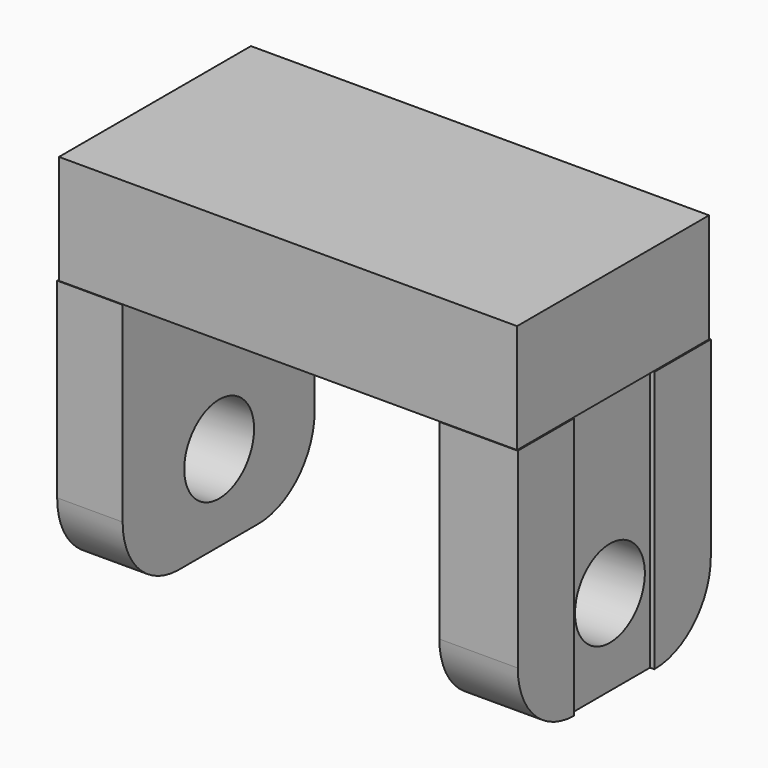
from build123d import *

# Parameters (mm, degrees)
F0_W           = 105
F0_H           = 55
F1_DEPTH       = 25
F2_D           = 10
F2_DEPTH       = 15
F2_TIP         = 3.0043030951
F3_D           = 5
F3_DEPTH       = 20
F3_TIP         = 1.5021515476
F4_W           = 15
F4_H           = 55
F4_W_2         = 17.9679095745
F4_H_2         = 55.3074888885
F5_DEPTH       = 60
F6_R           = 16.1752308679
F9_D           = 20
F9_DEPTH       = 50
F9_TIP         = 6.0086061903
F9_ON_F8_D     = 20
F9_ON_F8_DEPTH = 50
F9_ON_F8_TIP   = 6.0086061903
F10_W          = 22.9570271527
F10_H          = 60
F10_R          = 10
F11_DEPTH      = 1
F13_DEPTH      = 1


with BuildPart() as f1:
    # F0 (on Top) → F1 (new body)
    with BuildSketch(Plane.XY):
        Rectangle(F0_W, F0_H)
    extrude(amount=F1_DEPTH)

    # F2
    with Locations(Plane(origin=(0, 0, 0), x_dir=(1, 0, 0), z_dir=(0, 0, -1))):
        with Locations((-9.5454547554, -13.6163104326), (-9.5454547554, 16.7045462877), (10.4545452446, -13.6163104326), (10.4545452446, 17.2660425305)):
            Hole(F2_D / 2, depth=F2_DEPTH)
            with Locations((0, 0, -(F2_DEPTH + F2_TIP / 2))):  # 118° drill point
                Cone(0, F2_D / 2, F2_TIP, mode=Mode.SUBTRACT)

    # F3
    with Locations(Plane(origin=(0, 0, 0), x_dir=(1, 0, 0), z_dir=(0, 0, -1))):
        with Locations((-9.5454547554, 16.7045462877), (10.4545452446, 17.2660425305)):
            Hole(F3_D / 2, depth=F3_DEPTH)
            with Locations((0, 0, -(F3_DEPTH + F3_TIP / 2))):  # 118° drill point
                Cone(0, F3_D / 2, F3_TIP, mode=Mode.SUBTRACT)

    # F4 (on face) → F5 (join)
    with BuildSketch(Plane.XY):
        with Locations((-45.2807511389, -0.1537444443)):
            Rectangle(F4_W, F4_H)
        with Locations((43.7967926264, 0)):
            Rectangle(F4_W_2, F4_H_2)
    extrude(amount=-F5_DEPTH)

    # F6
    f6_edges = [f1.edges().sort_by_distance(p)[0] for p in [
        (-45.280751, 27.346256, -60),
        (-45.280751, -27.653744, -60),
        (43.796793, -27.653744, -60),
        (43.796793, 27.653744, -60),
    ]]
    fillet(f6_edges, radius=F6_R)

    # F9 (one way)
    with BuildSketch(Plane(origin=(34.8128378391, 0, 0), x_dir=(0, -1, 0), z_dir=(-1, 0, 0))):
        with Locations((0, -40.2935221791)):
            Circle(F9_D / 2)
    extrude(amount=-F9_DEPTH, mode=Mode.SUBTRACT)
    with Locations(Plane(origin=(34.8128378391, 0, 0), x_dir=(0, -1, 0), z_dir=(-1, 0, 0))):
        with Locations((0, -40.2935221791)):
            with Locations((0, 0, -(F9_DEPTH + F9_TIP / 2))):  # 118° drill point
                Cone(0, F9_D / 2, F9_TIP, mode=Mode.SUBTRACT)

    # F9 on F8 (one way)
    with BuildSketch(Plane.YZ.offset(-37.7807511389)):
        with Locations((0, -40.3322502971)):
            Circle(F9_ON_F8_D / 2)
    extrude(amount=-F9_ON_F8_DEPTH, mode=Mode.SUBTRACT)
    with Locations(Plane.YZ.offset(-37.7807511389)):
        with Locations((0, -40.3322502971)):
            with Locations((0, 0, -(F9_ON_F8_DEPTH + F9_ON_F8_TIP / 2))):  # 118° drill point
                Cone(0, F9_ON_F8_D / 2, F9_ON_F8_TIP, mode=Mode.SUBTRACT)

    # F10 (on face) → F11 (cut)
    with BuildSketch(Plane.YZ.offset(52.7807474136)):
        with Locations((0, -30)):
            Rectangle(F10_W, F10_H)
        with Locations((0, -40.2935221791)):
            Circle(F10_R, mode=Mode.SUBTRACT)
    extrude(amount=-F11_DEPTH, mode=Mode.SUBTRACT)

    # F12 (on face) → F13 (cut)
    with BuildSketch(Plane(origin=(-52.5, 0, 0), x_dir=(0, -1, 0), z_dir=(-1, 0, 0))):
        with BuildLine():
            Line((-8.1417122856, 13.3355623111), (8.7032085285, 13.8970594853))
            ThreePointArc((8.7032085285, 13.8970594853), (0.0070411683, 21.8275222154), (-8.1417122856, 13.3355623111))
        make_face()
        Polygon((15, -58.8169405147), (8.7032085285, 13.8970594853), (-8.1417122856, 13.3355623111), (-15, -59.3783445656), align=None)
    extrude(amount=-F13_DEPTH, mode=Mode.SUBTRACT)


solid = f1.part
